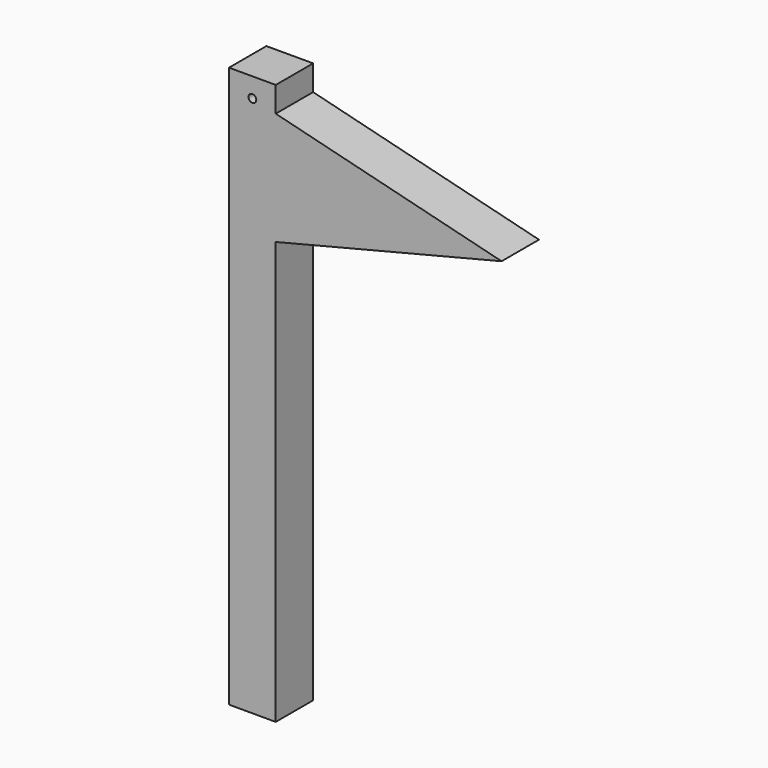
from build123d import *

# Parameters (mm, degrees)
F1_DEPTH = 38.1


with BuildPart() as f1:
    # F0 (on Front) → F1 (new body)
    with BuildSketch(Plane.XZ):
        with BuildLine():
            ThreePointArc((22.225, 441.325), (15.898789, 441.712932), (22.130202, 440.554949))
            ThreePointArc((22.130202, 440.554949), (22.201211, 440.937068), (22.225, 441.325))
        make_face()
        Polygon((0, 457.2), (0, 0), (38.1, 0), (38.1, 344.4875), (38.1, 436.5625), (38.1, 457.2), align=None)
        with BuildLine():
            ThreePointArc((22.225, 441.325), (22.201211, 440.937068), (22.130202, 440.554949))
            ThreePointArc((22.130202, 440.554949), (15.898789, 441.712932), (22.225, 441.325))
        make_face(mode=Mode.SUBTRACT)
        Polygon((38.1, 436.5625), (38.1, 344.4875), (222.25, 390.525), align=None)
    extrude(amount=F1_DEPTH)


solid = f1.part
